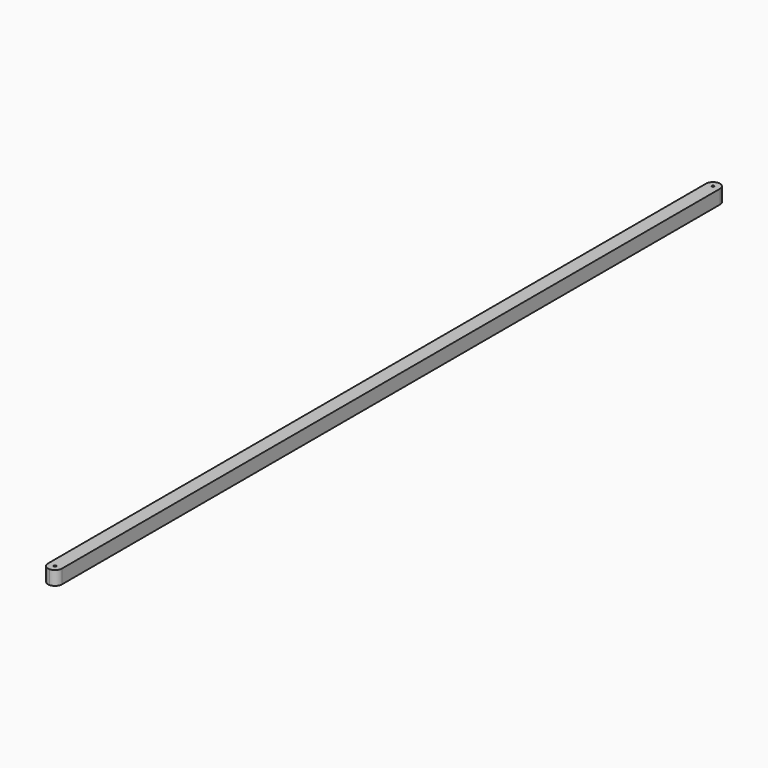
from build123d import *

# Parameters (mm, degrees)
F0_W     = 50
F0_H     = 50
F1_DEPTH = 3000
F2_R     = 4
F3_DEPTH = 50.001
F5_DEPTH = 50


with BuildPart() as f1:
    # F0 (on Front) → F1 (new body)
    with BuildSketch(Plane.XZ):
        with Locations((25, 25)):
            Rectangle(F0_W, F0_H)
    extrude(amount=F1_DEPTH)

    # F2 (on face) → F3 (cut, through all)
    with BuildSketch(Plane.XY.offset(50)):
        with Locations((25, -25)):
            Circle(F2_R)
        with Locations((25, -2975)):
            Circle(F2_R)
    extrude(amount=-F3_DEPTH, mode=Mode.SUBTRACT)

    # F4 (on face) → F5 (cut, through all)
    with BuildSketch(Plane.XY.offset(50)):
        with BuildLine():
            ThreePointArc((0, -25), (7.32233, -7.32233), (25, 0))
            Line((25, 0), (0, 0))
            Line((0, 0), (0, -25))
        make_face()
        with BuildLine():
            ThreePointArc((25, 0), (42.67767, -7.32233), (50, -25))
            Line((50, -25), (50, 0))
            Line((50, 0), (25, 0))
        make_face()
        with BuildLine():
            ThreePointArc((50, -2975), (42.67767, -2992.67767), (25, -3000))
            Line((25, -3000), (50, -3000))
            Line((50, -3000), (50, -2975))
        make_face()
        with BuildLine():
            ThreePointArc((25, -3000), (7.32233, -2992.67767), (0, -2975))
            Line((0, -2975), (0, -3000))
            Line((0, -3000), (25, -3000))
        make_face()
    extrude(amount=-F5_DEPTH, mode=Mode.SUBTRACT)


solid = f1.part
